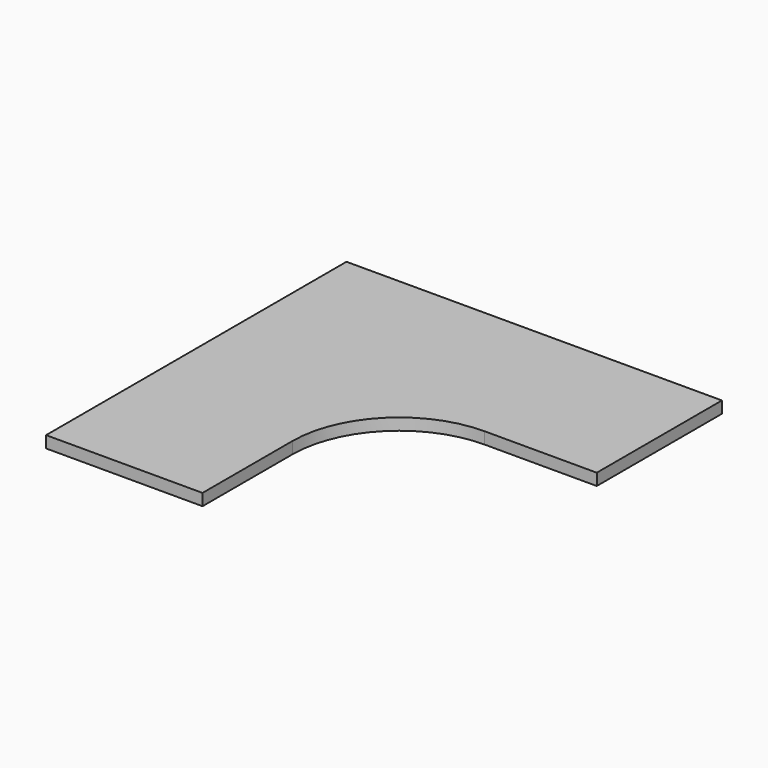
from build123d import *

# Parameters (mm, degrees)
F1_DEPTH = 38.1
F3_DEPTH = 38.1


with BuildPart() as f1:
    # F0 (on Top) → F1 (new body)
    with BuildSketch(Plane.XY):
        with BuildLine():
            Line((609.6, 101.6), (609.6, 609.6))
            Line((609.6, 609.6), (-609.6, 609.6))
            Line((-609.6, 609.6), (-609.6, -609.6))
            Line((-609.6, -609.6), (-101.6, -609.6))
            Line((-101.6, -609.6), (-101.6, -245.284098))
            ThreePointArc((-101.6, -245.284098), (0, 0), (245.284098, 101.6))
            Line((245.284098, 101.6), (609.6, 101.6))
        make_face()
    extrude(amount=F1_DEPTH)

    # F2 (on face) → F3 (join)
    with BuildSketch(Plane(origin=(0, 0, 0), x_dir=(1, 0, 0), z_dir=(0, 0, -1))):
        Polygon((-197.565635, 125.723586), (-251.447171, 179.605122), (-538.815367, -107.763073), (-484.933831, -161.64461), align=None)
        Polygon((-161.64461, -484.933831), (-107.763073, -538.815367), (179.605122, -251.447171), (125.723586, -197.565635), align=None)
    extrude(amount=F3_DEPTH)


solid = f1.part
